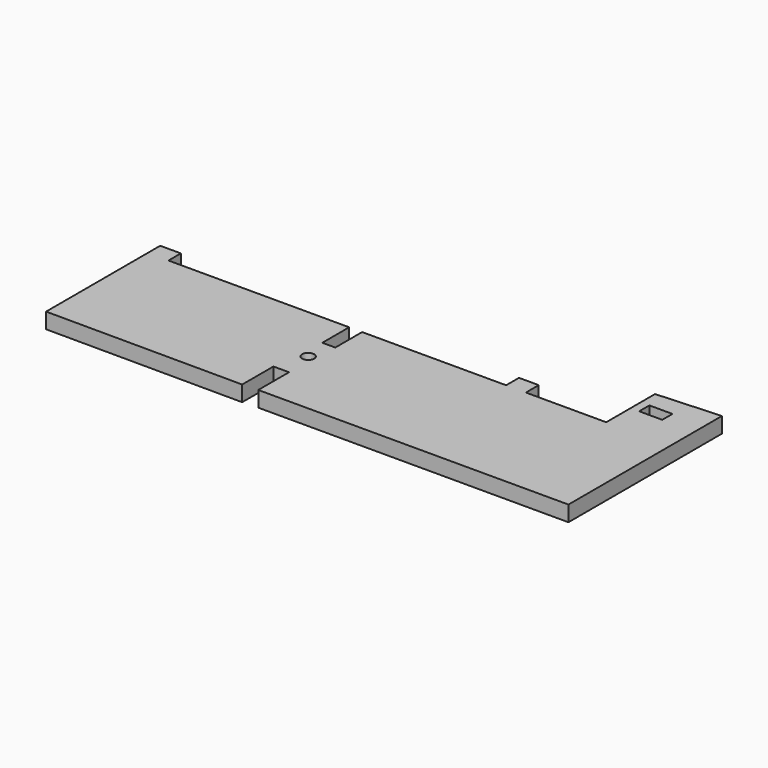
from build123d import *

# Parameters (mm, degrees)
F0_R     = 1.115
F0_W     = 4.26
F0_H     = 2.36
F1_DEPTH = 2.88


with BuildPart() as f1:
    # F0 (on Top) → F1 (new body)
    with BuildSketch(Plane.XY):
        Polygon((-35.788878, -5.828741), (-35.788878, 29.611259), (-47.604126, 28.931259), (-47.604126, 17.661259), (-62.444126, 17.661259), (-62.444126, 20.631259), (-66.094126, 20.631259), (-66.094126, 17.661259), (-92.694126, 17.661259), (-92.694126, 11.461259), (-95.088679, 11.461259), (-95.088679, 17.661259), (-128.468679, 17.661259), (-128.468679, 20.521259), (-132.288679, 20.521259), (-132.288679, -5.828741), (-95.968878, -5.948741), (-95.968878, 1.271259), (-93.088878, 1.271259), (-93.088878, -5.828741), align=None)
        with Locations((-94.013356, 6.847947)):
            Circle(F0_R, mode=Mode.SUBTRACT)
        with Locations((-43.892851, 24.476259)):
            Rectangle(F0_W, F0_H, mode=Mode.SUBTRACT)
    extrude(amount=F1_DEPTH)


solid = f1.part
